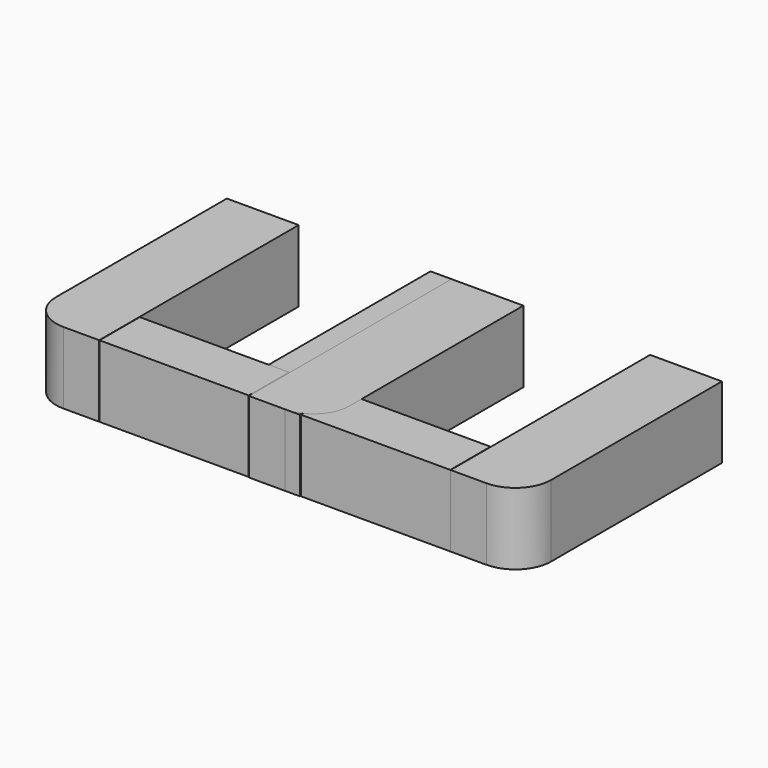
from build123d import *

# Parameters (mm, degrees)
F0_W     = 52.76449
F0_H     = 17.78
F1_DEPTH = 25.4


with BuildPart() as f1:
    # F0 (on Top) → F1 (new body)
    with BuildSketch(Plane.XY):
        with BuildLine():
            Line((8.973785, 36.458957), (-16.426215, 36.458957))
            Line((-16.426215, 36.458957), (-16.426215, -40.385249))
            ThreePointArc((-16.426215, -40.385249), (-12.706471, -49.365505), (-3.726215, -53.085249))
            Line((-3.726215, -53.085249), (8.973785, -53.085249))
            Line((8.973785, -53.085249), (8.973785, 36.458957))
        make_face()
        with Locations((35.654221, -43.987739)):
            Rectangle(F0_W, F0_H)
        with BuildLine():
            Line((62.159297, 35.323307), (62.159297, -52.877739))
            Line((62.159297, -52.877739), (74.859297, -52.877739))
            ThreePointArc((74.859297, -52.877739), (83.839553, -49.157995), (87.559297, -40.177739))
            Line((87.559297, -40.177739), (87.559297, 35.323307))
            Line((87.559297, 35.323307), (62.159297, 35.323307))
        make_face()
    extrude(amount=F1_DEPTH)


with BuildPart() as f2_1:
    # F2: instance of F1
    add(f1.part.mirror(Plane.YZ))


solid = Compound([f1.part, f2_1.part])
